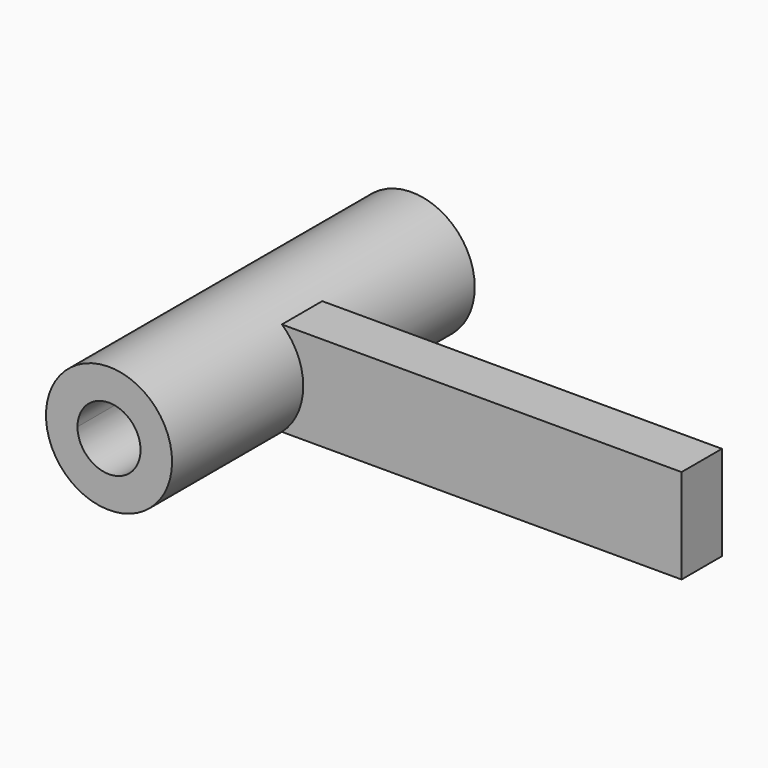
from build123d import *

# Parameters (mm, degrees)
F0_R     = 25.4
F0_R_2   = 12.7
F1_DEPTH = 76.2
F2_DEPTH = 76.2
F3_W     = 20.32
F3_H     = 38.1
F4_DEPTH = 177.8
F5_D     = 25.4
F5_DEPTH = 76.201
F6_D     = 25.4


with BuildPart() as f1:
    # F0 (on Front) → F1 (new body)
    with BuildSketch(Plane.XZ):
        Circle(F0_R)
        Circle(F0_R_2, mode=Mode.SUBTRACT)
    extrude(amount=F1_DEPTH)

    # F2 (add): a face of the model
    f2_faces = [f1.faces().sort_by_distance(p)[0] for p in [
        (-24.6815795103, 0, 0),
    ]]
    extrude(f2_faces, amount=F2_DEPTH)

    # F3 (on Right) → F4 (join)
    with BuildSketch(Plane.YZ):
        Rectangle(F3_W, F3_H)
    extrude(amount=F4_DEPTH)

    # F5 (through all, one way)
    with BuildSketch(Plane(origin=(0, 0, 0), x_dir=(1, 0, 0), z_dir=(0, 1, 0))):
        with Locations((0, 0)):
            Circle(F5_D / 2)
    extrude(amount=-F5_DEPTH, mode=Mode.SUBTRACT)

    # F6 (through all)
    with Locations(Plane.XZ):
        with Locations((0, 0)):
            Hole(F6_D / 2)


solid = f1.part
